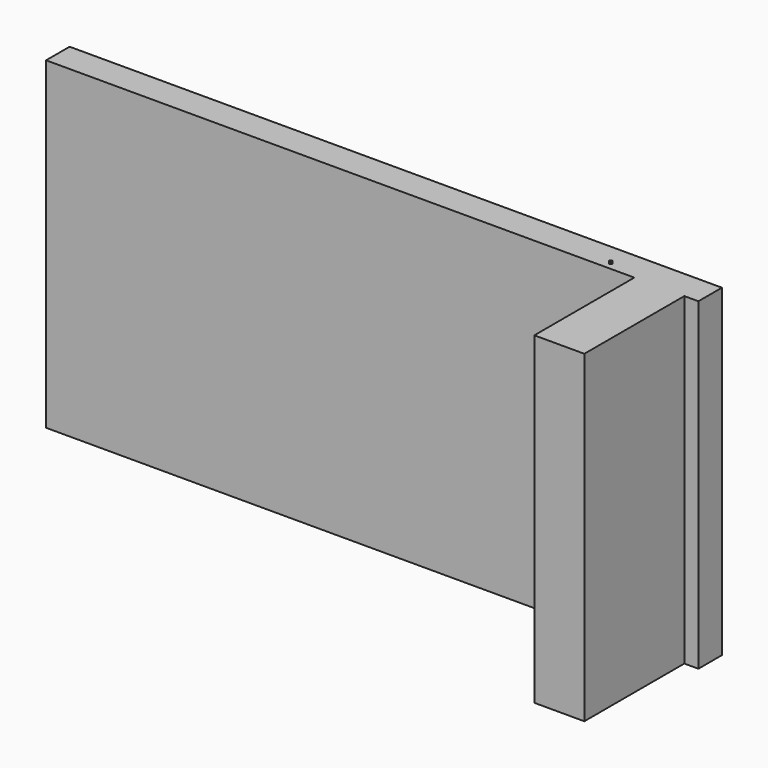
from build123d import *

# Parameters (mm, degrees)
F1_DEPTH  = 2200
F2_W      = 315
F2_H      = 510
F3_DEPTH  = 200
F5_R      = 45
F5_R_2    = 35
F6_DEPTH  = 80
F8_R      = 10
F11_R     = 7.5
F13_R     = 10.2444666601
F14_DEPTH = 120.001


with BuildPart() as f1:
    # F0 (on Top) → F1 (new body)
    with BuildSketch(Plane.XY):
        Polygon((-4000, 0), (0, 0), (0, -850), (340, -850), (340, 0), (435.6485232387, 0), (435.6485232387, 200), (-4000, 200), align=None)
    extrude(amount=F1_DEPTH)

    # F2 (on face) → F3 (cut)
    with BuildSketch(Plane(origin=(0, 0, 0), x_dir=(0, -1, 0), z_dir=(-1, 0, 0))):
        with Locations((367.5, 1505)):
            Rectangle(F2_W, F2_H)
    extrude(amount=-F3_DEPTH, mode=Mode.SUBTRACT)

    # F5 (on face) → F6 (cut)
    with BuildSketch(Plane.XZ):
        with Locations((-200, 260)):
            Circle(F5_R)
        with Locations((-70, 1870)):
            Circle(F5_R)
        with Locations((-180, 460)):
            Circle(F5_R_2)
        with Locations((-260, 460)):
            Circle(F5_R_2)
    extrude(amount=-F6_DEPTH, mode=Mode.SUBTRACT)

    # F13 (on face) → F14 (cut, through all)
    with BuildSketch(Plane.XZ.offset(-80)):
        with Locations((-276.1521041393, 475.3983914852)):
            Circle(F13_R)
    extrude(amount=-F14_DEPTH, mode=Mode.SUBTRACT)


with BuildPart() as f9:
    # F9: sweep along a path in F7
    with BuildLine(Plane.XZ) as f9_path:
        Line((-200, 215), (-200, 0))
    # F8 (on Top) → F9 (sweep)
    with BuildSketch(Plane.XY):
        with Locations((-200, 50)):
            Circle(F8_R)
    sweep(path=f9_path.line)

    # F10: sweep along a path in F7
    with BuildLine(Plane.XZ) as f10_path:
        Line((-200, 305), (-200, 2518.1469917297))
    # F8 (on Top) → F10 (sweep)
    with BuildSketch(Plane.XY):
        with Locations((-200, 50)):
            Circle(F8_R)
    sweep(path=f10_path.line)


with BuildPart() as f12:
    # F12: sweep along a path in F7, F4
    with BuildLine(Plane.XZ) as f12_path:
        Line((-179.3844718719, 300), (0, 300))
    with BuildLine(Plane(origin=(0, 0, 0), x_dir=(0, -1, 0), z_dir=(-1, 0, 0))) as f12_path_2:
        Line((0, 300), (30, 300))
        Line((30, 300), (30, 700))
        Line((30, 700), (280, 700))
        Line((280, 700), (280, 1250))
    # F11 (on Right) → F12 (sweep)
    with BuildSketch(Plane.YZ):
        with Locations((0, 300)):
            Circle(F11_R)
    sweep(path=f12_path.line + f12_path_2.line, transition=Transition.RIGHT)


solid = Compound([f1.part, f9.part, f12.part])
